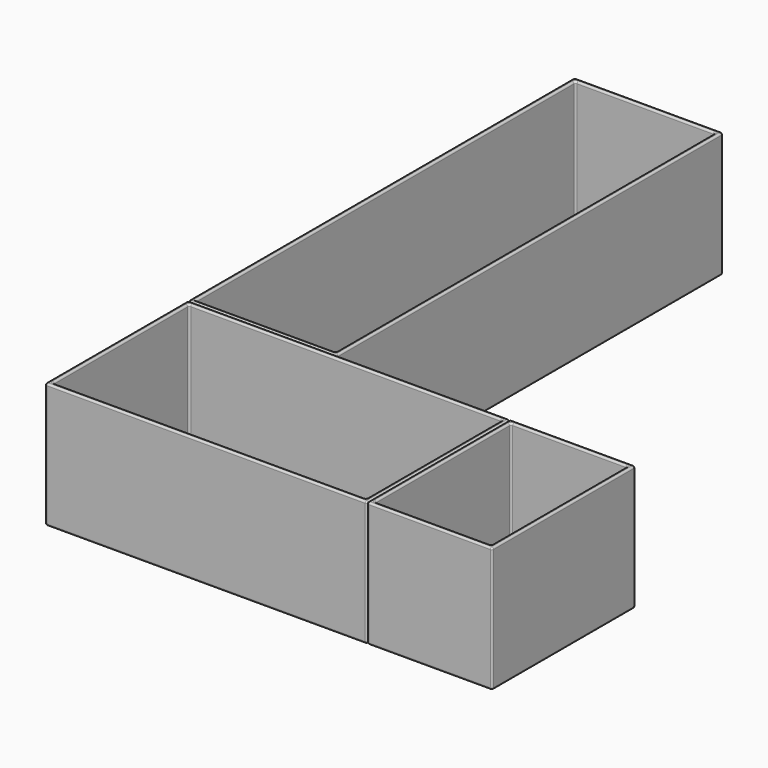
from build123d import *

# Parameters (mm, degrees)
SKETCH_W        = 83
SKETCH_H        = 270
PAD_DEPTH       = 70
SKETCH001_W     = 78.2
SKETCH001_H     = 265.2
POCKET_DEPTH    = 67.6
FILLET_R        = 1
SKETCH002_W     = 180
SKETCH002_H     = 100
PAD001_DEPTH    = 70
SKETCH003_W     = 175.2
SKETCH003_H     = 95.2
POCKET001_DEPTH = 67.6
FILLET001_R     = 1
SKETCH004_W     = 70
SKETCH004_H     = 100
PAD002_DEPTH    = 70
SKETCH005_W     = 65.2
SKETCH005_H     = 95.2
POCKET002_DEPTH = 67.6
FILLET002_R     = 40
FILLET003_R     = 1


with BuildPart() as obj1:
    # Sketch → Pad (new body)
    with BuildSketch(Plane.XY):
        with Locations((41.5, 135)):
            Rectangle(SKETCH_W, SKETCH_H)
    extrude(amount=PAD_DEPTH)

    # Sketch001 → Pocket (cut)
    with BuildSketch(Plane.XY.offset(70)):
        with Locations((41.5, 135)):
            Rectangle(SKETCH001_W, SKETCH001_H)
    extrude(amount=-POCKET_DEPTH, mode=Mode.SUBTRACT)

    # Fillet
    fillet_edges = [obj1.edges().sort_by_distance(p)[0] for p in [
        (83, 0, 35),
        (41.5, 0, 70),
        (41.5, 0, 0),
        (0, 0, 35),
        (0, 135, 70),
        (0, 135, 0),
        (0, 270, 35),
        (41.5, 270, 70),
        (83, 270, 35),
        (41.5, 270, 0),
        (83, 135, 0),
        (83, 135, 70),
        (80.6, 135, 70),
        (41.5, 2.4, 70),
        (80.6, 2.4, 36.2),
        (80.6, 135, 2.4),
        (41.5, 2.4, 2.4),
        (2.4, 135, 2.4),
        (2.4, 135, 70),
        (2.4, 267.6, 36.2),
        (41.5, 267.6, 70),
        (80.6, 267.6, 36.2),
        (41.5, 267.6, 2.4),
    ]]
    fillet(fillet_edges, radius=FILLET_R)


with BuildPart() as obj2:
    # Sketch002 → Pad001 (new body)
    with BuildSketch(Plane.XY):
        with Locations((90, -50)):
            Rectangle(SKETCH002_W, SKETCH002_H)
    extrude(amount=PAD001_DEPTH)

    # Sketch003 → Pocket001 (cut)
    with BuildSketch(Plane.XY.offset(70)):
        with Locations((90, -50)):
            Rectangle(SKETCH003_W, SKETCH003_H)
    extrude(amount=-POCKET001_DEPTH, mode=Mode.SUBTRACT)

    # Fillet001
    fillet001_edges = [obj2.edges().sort_by_distance(p)[0] for p in [
        (2.4, -50, 70),
        (0, -50, 70),
        (90, -2.4, 70),
        (90, 0, 70),
        (90, -100, 70),
        (90, -97.6, 70),
        (0, -100, 35),
        (90, -100, 0),
        (0, -50, 0),
        (180, -100, 35),
        (180, -50, 70),
        (177.6, -50, 70),
        (180, -50, 0),
        (180, 0, 35),
        (90, 0, 0),
        (0, 0, 35),
        (2.4, -97.6, 36.2),
        (2.4, -50, 2.4),
        (90, -97.6, 2.4),
        (2.4, -2.4, 36.2),
        (90, -2.4, 2.4),
        (177.6, -2.4, 36.2),
        (177.6, -50, 2.4),
        (177.6, -97.6, 36.2),
    ]]
    fillet(fillet001_edges, radius=FILLET001_R)


with BuildPart() as storage:
    # Sketch004 → Pad002 (new body)
    with BuildSketch(Plane.XY):
        with Locations((215, -50)):
            Rectangle(SKETCH004_W, SKETCH004_H)
    extrude(amount=PAD002_DEPTH)

    # Sketch005 → Pocket002 (cut)
    with BuildSketch(Plane.XY.offset(70)):
        with Locations((215, -50)):
            Rectangle(SKETCH005_W, SKETCH005_H)
    extrude(amount=-POCKET002_DEPTH, mode=Mode.SUBTRACT)

    # Fillet002
    fillet002_edges = [storage.edges().sort_by_distance(p)[0] for p in [
        (215, -97.6, 2.4),
    ]]
    fillet(fillet002_edges, radius=FILLET002_R)

    # Fillet003
    fillet003_edges = [storage.edges().sort_by_distance(p)[0] for p in [
        (180, -100, 35),
        (215, -100, 70),
        (250, -100, 35),
        (215, -100, 0),
        (180, -50, 70),
        (182.4, -50, 70),
        (215, -97.6, 70),
        (247.6, -50, 70),
        (250, -50, 70),
        (215, -2.4, 70),
        (215, 0, 70),
        (250, -50, 0),
        (250, 0, 35),
        (215, 0, 0),
        (180, -50, 0),
        (180, 0, 35),
        (182.4, -30, 2.4),
        (182.4, -2.4, 36.2),
        (215, -2.4, 2.4),
        (247.6, -2.4, 36.2),
        (247.6, -30, 2.4),
    ]]
    fillet(fillet003_edges, radius=FILLET003_R)


solid = Compound([obj1.part, obj2.part, storage.part])
